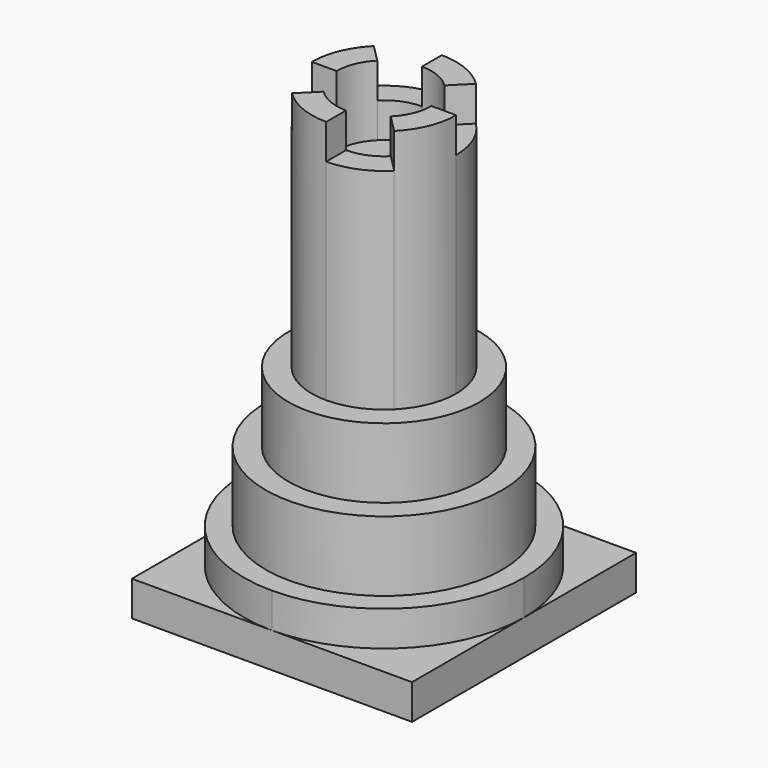
from build123d import *

# Parameters (mm, degrees)
F1_DEPTH = 6.35
F0_R     = 21.457702
F2_DEPTH = 12.7
F0_R_2   = 17.312031
F3_DEPTH = 25.4
F4_DEPTH = 38.1
F5_DEPTH = 69.85
F6_DEPTH = 76.2
F7_DEPTH = 82.55


with BuildPart() as f1:
    # F0 (on Top) → F1 (new body)
    with BuildSketch(Plane.XY):
        with BuildLine():
            ThreePointArc((0, -25.4), (-17.960512, -17.960512), (-25.4, 0))
            Line((-25.4, 0), (-25.4, -25.4))
            Line((-25.4, -25.4), (0, -25.4))
        make_face()
        with BuildLine():
            ThreePointArc((-25.4, 0), (-17.960512, 17.960512), (0, 25.4))
            Line((0, 25.4), (-25.4, 25.4))
            Line((-25.4, 25.4), (-25.4, 0))
        make_face()
        with BuildLine():
            Line((25.4, 0), (25.4, 25.4))
            Line((25.4, 25.4), (0, 25.4))
            ThreePointArc((0, 25.4), (17.960512, 17.960512), (25.4, 0))
        make_face()
        with BuildLine():
            Line((25.4, -25.4), (25.4, 0))
            ThreePointArc((25.4, 0), (17.960512, -17.960512), (0, -25.4))
            Line((0, -25.4), (25.4, -25.4))
        make_face()
    extrude(amount=F1_DEPTH)

    # F0 (on Top) → F2 (join)
    with BuildSketch(Plane.XY):
        with BuildLine():
            ThreePointArc((25.4, 0), (17.960512, 17.960512), (0, 25.4))
            ThreePointArc((0, 25.4), (-17.960512, 17.960512), (-25.4, 0))
            ThreePointArc((-25.4, 0), (-17.960512, -17.960512), (0, -25.4))
            ThreePointArc((0, -25.4), (17.960512, -17.960512), (25.4, 0))
        make_face()
        Circle(F0_R, mode=Mode.SUBTRACT)
    extrude(amount=F2_DEPTH)

    # F0 (on Top) → F3 (join)
    with BuildSketch(Plane.XY):
        Circle(F0_R)
        Circle(F0_R_2, mode=Mode.SUBTRACT)
    extrude(amount=F3_DEPTH)

    # F0 (on Top) → F4 (join)
    with BuildSketch(Plane.XY):
        Circle(F0_R_2)
        with BuildLine():
            ThreePointArc((9.261436, 9.261436), (12.100649, 5.012253), (13.097648, 0))
            ThreePointArc((13.097648, 0), (12.100649, -5.012253), (9.261436, -9.261436))
            ThreePointArc((9.261436, -9.261436), (5.012253, -12.100649), (0, -13.097648))
            ThreePointArc((0, -13.097648), (-5.012253, -12.100649), (-9.261436, -9.261436))
            ThreePointArc((-9.261436, -9.261436), (-12.100649, -5.012253), (-13.097648, 0))
            ThreePointArc((-13.097648, 0), (-12.100649, 5.012253), (-9.261436, 9.261436))
            ThreePointArc((-9.261436, 9.261436), (-5.012253, 12.100649), (0, 13.097648))
            ThreePointArc((0, 13.097648), (5.012253, 12.100649), (9.261436, 9.261436))
        make_face(mode=Mode.SUBTRACT)
    extrude(amount=F4_DEPTH)


with BuildPart() as f5:
    # F0 (on Top) → F5 (new body)
    with BuildSketch(Plane.XY):
        with BuildLine():
            ThreePointArc((6.082425, -6.082425), (7.947072, -3.291785), (8.601848, 0))
            ThreePointArc((8.601848, 0), (7.947072, 3.291785), (6.082425, 6.082425))
            ThreePointArc((6.082425, 6.082425), (3.291785, 7.947072), (0, 8.601848))
            ThreePointArc((0, 8.601848), (-3.291785, 7.947072), (-6.082425, 6.082425))
            ThreePointArc((-6.082425, 6.082425), (-7.947072, 3.291785), (-8.601848, 0))
            ThreePointArc((-8.601848, 0), (-7.947072, -3.291785), (-6.082425, -6.082425))
            ThreePointArc((-6.082425, -6.082425), (-3.291785, -7.947072), (0, -8.601848))
            ThreePointArc((0, -8.601848), (3.291785, -7.947072), (6.082425, -6.082425))
        make_face()
    extrude(amount=F5_DEPTH)


with BuildPart() as f6:
    # F0 (on Top) → F6 (new body)
    with BuildSketch(Plane.XY):
        with BuildLine():
            Line((0, 8.601848), (0, 13.097648))
            ThreePointArc((0, 13.097648), (-5.012253, 12.100649), (-9.261436, 9.261436))
            Line((-9.261436, 9.261436), (-6.082425, 6.082425))
            ThreePointArc((-6.082425, 6.082425), (-3.291785, 7.947072), (0, 8.601848))
        make_face()
        with BuildLine():
            Line((8.601848, 0), (13.097648, 0))
            ThreePointArc((13.097648, 0), (12.100649, 5.012253), (9.261436, 9.261436))
            Line((9.261436, 9.261436), (6.082425, 6.082425))
            ThreePointArc((6.082425, 6.082425), (7.947072, 3.291785), (8.601848, 0))
        make_face()
        with BuildLine():
            ThreePointArc((0, -13.097648), (5.012253, -12.100649), (9.261436, -9.261436))
            Line((9.261436, -9.261436), (6.082425, -6.082425))
            ThreePointArc((6.082425, -6.082425), (3.291785, -7.947072), (0, -8.601848))
            Line((0, -8.601848), (0, -13.097648))
        make_face()
        with BuildLine():
            ThreePointArc((-13.097648, 0), (-12.100649, -5.012253), (-9.261436, -9.261436))
            Line((-9.261436, -9.261436), (-6.082425, -6.082425))
            ThreePointArc((-6.082425, -6.082425), (-7.947072, -3.291785), (-8.601848, 0))
            Line((-8.601848, 0), (-13.097648, 0))
        make_face()
    extrude(amount=F6_DEPTH)


with BuildPart() as f7:
    # F0 (on Top) → F7 (new body)
    with BuildSketch(Plane.XY):
        with BuildLine():
            Line((-6.082425, 6.082425), (-9.261436, 9.261436))
            ThreePointArc((-9.261436, 9.261436), (-12.100649, 5.012253), (-13.097648, 0))
            Line((-13.097648, 0), (-8.601848, 0))
            ThreePointArc((-8.601848, 0), (-7.947072, 3.291785), (-6.082425, 6.082425))
        make_face()
        with BuildLine():
            Line((6.082425, 6.082425), (9.261436, 9.261436))
            ThreePointArc((9.261436, 9.261436), (5.012253, 12.100649), (0, 13.097648))
            Line((0, 13.097648), (0, 8.601848))
            ThreePointArc((0, 8.601848), (3.291785, 7.947072), (6.082425, 6.082425))
        make_face()
        with BuildLine():
            ThreePointArc((9.261436, -9.261436), (12.100649, -5.012253), (13.097648, 0))
            Line((13.097648, 0), (8.601848, 0))
            ThreePointArc((8.601848, 0), (7.947072, -3.291785), (6.082425, -6.082425))
            Line((6.082425, -6.082425), (9.261436, -9.261436))
        make_face()
        with BuildLine():
            ThreePointArc((-9.261436, -9.261436), (-5.012253, -12.100649), (0, -13.097648))
            Line((0, -13.097648), (0, -8.601848))
            ThreePointArc((0, -8.601848), (-3.291785, -7.947072), (-6.082425, -6.082425))
            Line((-6.082425, -6.082425), (-9.261436, -9.261436))
        make_face()
    extrude(amount=F7_DEPTH)


solid = Compound([f1.part, f5.part, f6.part, f7.part])
